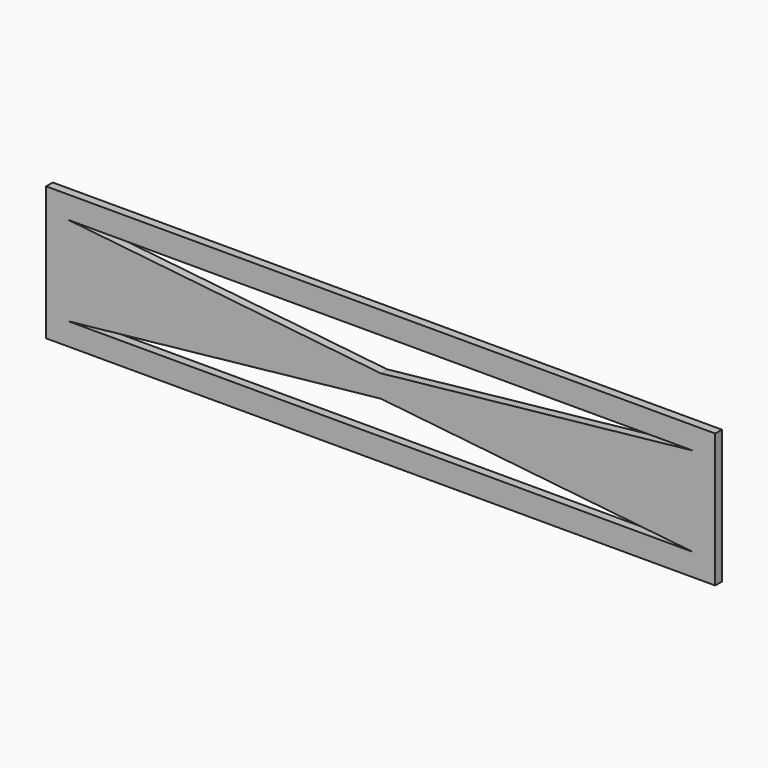
from build123d import *

# Parameters (mm, degrees)
F0_W     = 1524
F0_H     = 304.8
F1_DEPTH = 19.05
F3_DEPTH = 19.051


with BuildPart() as f1:
    # F0 (on Front) → F1 (new body)
    with BuildSketch(Plane.XZ):
        with Locations((762, 152.4)):
            Rectangle(F0_W, F0_H)
    extrude(amount=F1_DEPTH)

    # F2 (on face) → F3 (cut, through all)
    with BuildSketch(Plane.XZ.offset(19.05)):
        Polygon((1473.2, 254), (50.8, 254), (762, 177.8), align=None)
        Polygon((762, 127), (50.8, 50.8), (1473.2, 50.8), align=None)
    extrude(amount=-F3_DEPTH, mode=Mode.SUBTRACT)


solid = f1.part
